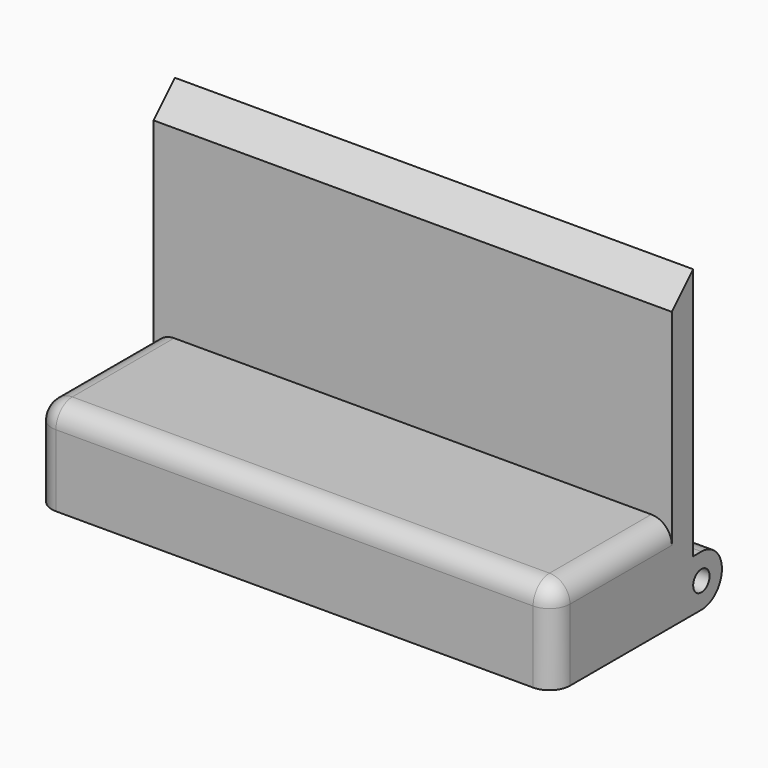
from build123d import *

# Parameters (mm, degrees)
PAD003_DEPTH    = 25.25
SKETCH008_W     = 25
SKETCH008_H     = 44.5
POCKET_DEPTH    = 5
SKETCH009_R     = 4
PAD004_DEPTH    = 1
SKETCH010_R     = 1.9
PAD005_DEPTH    = 4
POCKET001_DEPTH = 5
SKETCH012_R     = 1
POCKET002_DEPTH = 50.501
FILLET_R        = 2


with BuildPart() as part:
    # Sketch003 → Pad003 (new body, symmetric)
    with BuildSketch(Plane.YZ):
        with BuildLine():
            Line((-2.6, 27.03), (-2.6, 9))
            Line((-2.6, 9), (-17, 9))
            Line((-17, 9), (-17, 0))
            Line((-17, 0), (1, 0))
            ThreePointArc((1, 0), (3.5, 2.5), (1, 5))
            Line((0, 5), (1, 5))
            Line((0, 5), (0, 27.03))
            Line((0, 27.03), (2.6, 27.03))
            Line((2.6, 27.03), (0, 29.63))
            Line((0, 29.63), (-2.6, 27.03))
        make_face()
    extrude(amount=PAD003_DEPTH, both=True)

    # Sketch008 (on Face8 of Pad003) → Pocket (cut)
    with BuildSketch(Plane.YX):
        with Locations((-2.5, 0)):
            Rectangle(SKETCH008_W, SKETCH008_H)
    extrude(amount=-POCKET_DEPTH, mode=Mode.SUBTRACT)

    # Sketch009 (on Face3 of Pocket) → Pad004 (join)
    with BuildSketch(Plane.YX.offset(-5)):
        with Locations((-4.5, 0)):
            Circle(SKETCH009_R)
    extrude(amount=PAD004_DEPTH)

    # Sketch010 (on Face20 of Pad004) → Pad005 (join)
    with BuildSketch(Plane.YX.offset(-4)):
        with Locations((-4.5, 0)):
            Circle(SKETCH010_R)
    extrude(amount=PAD005_DEPTH)

    # Sketch011 (on Face5 of Pad005) → Pocket001 (cut)
    with BuildSketch(Plane.YX.offset(-27.03)):
        Polygon((0, 15.5), (5, 15.5), (5, -15.5), (0, -15.5), (0, -30), (22, -30), (22, 30), (0, 30), align=None)
    extrude(amount=-POCKET001_DEPTH, mode=Mode.SUBTRACT)

    # Sketch012 (on Face9 of Pocket001) → Pocket002 (cut, through all)
    with BuildSketch(Plane.YZ.offset(25.25)):
        with Locations((1, 2.5)):
            Circle(SKETCH012_R)
    extrude(amount=-POCKET002_DEPTH, mode=Mode.SUBTRACT)

    # Fillet
    fillet_edges = [part.edges().sort_by_distance(p)[0] for p in [
        (0, -17, 9),
        (25.25, -17, 4.5),
        (25.25, -9.8, 9),
        (-25.25, -17, 4.5),
        (-25.25, -9.8, 9),
    ]]
    fillet(fillet_edges, radius=FILLET_R)


solid = part.part
